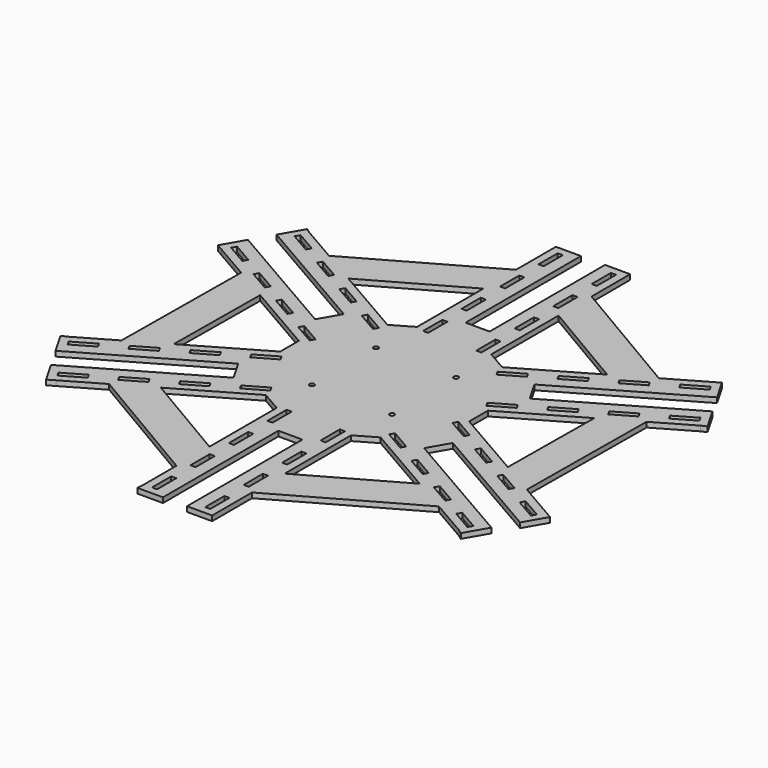
from build123d import *

# Parameters (mm, degrees)
F0_W     = 3.175
F0_H     = 15
F0_R     = 1.5
F1_DEPTH = 3.175
F2_W     = 15
F2_H     = 90
F3_DEPTH = 25


with BuildPart() as f1:
    # F0 (on Top) → F1 (new body)
    with BuildSketch(Plane.XY):
        Polygon((-23.175, 131.9121967456), (-103.4970442431, 86.514231331), (-81.2104844773, 73.6470800509), (-23.175, 106.4486968667), align=None)
        Polygon((-103.7747756863, 33.1542097007), (-125.8268134507, 45.8859596401), (-126.6720442431, -46.3739538656), (-104.3854844773, -33.5068025855), align=None)
        Polygon((-80.5997756863, -73.2944871661), (-102.6518134507, -86.0262371055), (-23.175, -132.8881851966), (-23.175, -107.1538826365), align=None)
        Polygon((23.175, -106.4486968667), (23.175, -131.9121967456), (103.4970442431, -86.514231331), (81.2104844773, -73.6470800509), align=None)
        Polygon((125.8268134507, -45.8859596401), (126.6720442431, 46.3739538656), (104.3854844773, 33.5068025855), (103.7747756863, -33.1542097007), align=None)
        Polygon((102.6518134507, 86.0262371055), (23.175, 132.8881851966), (23.175, 107.1538826365), (80.5997756863, 73.2944871661), align=None)
        Polygon((-103.4970442431, 86.514231331), (-126.509510468, 99.8004849007), (-129.388832816, 101.8705070473), (-152.7403481117, 61.4244961215), (-148.5971189432, 59.0324016457), (-125.8268134507, 45.8859596401), (-103.7747756863, 33.1542097007), (-58.9524324294, 7.2760177556), (-58.9524324294, -7.2760177556), (-104.3854844773, -33.5068025855), (-126.6720442431, -46.3739538656), (-149.684510468, -59.6602074353), (-152.9168634074, -61.118762661), (-129.5653481117, -101.5647735869), (-125.4221189432, -99.1726791111), (-102.6518134507, -86.0262371055), (-80.5997756863, -73.2944871661), (-35.7774324294, -47.416295221), (-23.175, -54.6923129765), (-23.175, -107.1538826365), (-23.175, -132.8881851966), (-23.175, -159.4606923359), (-23.5280305914, -162.9892697083), (23.175, -162.9892697083), (23.175, -158.2050807569), (23.175, -131.9121967456), (23.175, -106.4486968667), (23.175, -54.6923129765), (35.7774324294, -47.416295221), (81.2104844773, -73.6470800509), (103.4970442431, -86.514231331), (126.509510468, -99.8004849007), (129.388832816, -101.8705070473), (152.7403481117, -61.4244961215), (148.5971189432, -59.0324016457), (125.8268134507, -45.8859596401), (103.7747756863, -33.1542097007), (58.9524324294, -7.2760177556), (58.9524324294, 7.2760177556), (104.3854844773, 33.5068025855), (126.6720442431, 46.3739538656), (149.684510468, 59.6602074353), (152.9168634074, 61.118762661), (129.5653481117, 101.5647735869), (125.4221189432, 99.1726791111), (102.6518134507, 86.0262371055), (80.5997756863, 73.2944871661), (35.7774324294, 47.416295221), (23.175, 54.6923129765), (23.175, 107.1538826365), (23.175, 132.8881851966), (23.175, 159.4606923359), (23.175, 162.9892697083), (-23.175, 162.9892697083), (-23.175, 158.2050807569), (-23.175, 131.9121967456), (-23.175, 106.4486968667), (-23.175, 54.6923129765), (-35.7774324294, 47.416295221), (-81.2104844773, 73.6470800509), align=None)
        Polygon((-116.5192378865, -84.5929214352), (-114.9317378865, -87.3425520922), (-127.9221189432, -94.8425520922), (-129.5096189432, -92.0929214352), align=None, mode=Mode.SUBTRACT)
        with Locations((-16.5875, -150.7050807569)):
            Rectangle(F0_W, F0_H, mode=Mode.SUBTRACT)
        with Locations((-16.5875, -120.7050807569)):
            Rectangle(F0_W, F0_H, mode=Mode.SUBTRACT)
        with Locations((-16.5875, -90.7050807569)):
            Rectangle(F0_W, F0_H, mode=Mode.SUBTRACT)
        Polygon((-133.1067378865, -55.8625286647), (-131.5192378865, -58.6121593217), (-144.5096189432, -66.1121593217), (-146.0971189432, -63.3625286647), align=None, mode=Mode.SUBTRACT)
        Polygon((-120.1163568297, -48.3625286647), (-107.1259757729, -40.8625286647), (-105.5384757729, -43.6121593217), (-118.5288568297, -51.1121593217), align=None, mode=Mode.SUBTRACT)
        Polygon((-90.5384757729, -69.5929214352), (-88.9509757729, -72.3425520922), (-101.9413568297, -79.8425520922), (-103.5288568297, -77.0929214352), align=None, mode=Mode.SUBTRACT)
        Polygon((-77.5480947162, -62.0929214352), (-64.5577136594, -54.5929214352), (-62.9702136594, -57.3425520922), (-75.9605947162, -64.8425520922), align=None, mode=Mode.SUBTRACT)
        Polygon((-38.5769515459, -39.5929214352), (-36.9894515459, -42.3425520922), (-49.9798326026, -49.8425520922), (-51.5673326026, -47.0929214352), align=None, mode=Mode.SUBTRACT)
        with Locations((-16.5875, -60.7050807569)):
            Rectangle(F0_W, F0_H, mode=Mode.SUBTRACT)
        Polygon((-81.1452136594, -25.8625286647), (-79.5577136594, -28.6121593217), (-92.5480947162, -36.1121593217), (-94.1355947162, -33.3625286647), align=None, mode=Mode.SUBTRACT)
        Polygon((-68.1548326026, -18.3625286647), (-55.1644515459, -10.8625286647), (-53.5769515459, -13.6121593217), (-66.5673326026, -21.1121593217), align=None, mode=Mode.SUBTRACT)
        with Locations((-25, -25)):
            Circle(F0_R, mode=Mode.SUBTRACT)
        with Locations((16.5875, -150.7050807569)):
            Rectangle(F0_W, F0_H, mode=Mode.SUBTRACT)
        with Locations((16.5875, -120.7050807569)):
            Rectangle(F0_W, F0_H, mode=Mode.SUBTRACT)
        with Locations((16.5875, -90.7050807569)):
            Rectangle(F0_W, F0_H, mode=Mode.SUBTRACT)
        Polygon((114.9317378865, -87.3425520922), (116.5192378865, -84.5929214352), (129.5096189432, -92.0929214352), (127.9221189432, -94.8425520922), align=None, mode=Mode.SUBTRACT)
        with Locations((16.5875, -60.7050807569)):
            Rectangle(F0_W, F0_H, mode=Mode.SUBTRACT)
        Polygon((49.9798326026, -49.8425520922), (36.9894515459, -42.3425520922), (38.5769515459, -39.5929214352), (51.5673326026, -47.0929214352), align=None, mode=Mode.SUBTRACT)
        Polygon((101.9413568297, -79.8425520922), (88.9509757729, -72.3425520922), (90.5384757729, -69.5929214352), (103.5288568297, -77.0929214352), align=None, mode=Mode.SUBTRACT)
        Polygon((62.9702136594, -57.3425520922), (64.5577136594, -54.5929214352), (77.5480947162, -62.0929214352), (75.9605947162, -64.8425520922), align=None, mode=Mode.SUBTRACT)
        with Locations((25, -25)):
            Circle(F0_R, mode=Mode.SUBTRACT)
        Polygon((92.5480947162, -36.1121593217), (79.5577136594, -28.6121593217), (81.1452136594, -25.8625286647), (94.1355947162, -33.3625286647), align=None, mode=Mode.SUBTRACT)
        Polygon((53.5769515459, -13.6121593217), (55.1644515459, -10.8625286647), (68.1548326026, -18.3625286647), (66.5673326026, -21.1121593217), align=None, mode=Mode.SUBTRACT)
        Polygon((105.5384757729, -43.6121593217), (107.1259757729, -40.8625286647), (120.1163568297, -48.3625286647), (118.5288568297, -51.1121593217), align=None, mode=Mode.SUBTRACT)
        Polygon((131.5192378865, -58.6121593217), (133.1067378865, -55.8625286647), (146.0971189432, -63.3625286647), (144.5096189432, -66.1121593217), align=None, mode=Mode.SUBTRACT)
        Polygon((-131.5192378865, 58.6121593217), (-133.1067378865, 55.8625286647), (-146.0971189432, 63.3625286647), (-144.5096189432, 66.1121593217), align=None, mode=Mode.SUBTRACT)
        Polygon((-105.5384757729, 43.6121593217), (-107.1259757729, 40.8625286647), (-120.1163568297, 48.3625286647), (-118.5288568297, 51.1121593217), align=None, mode=Mode.SUBTRACT)
        Polygon((-53.5769515459, 13.6121593217), (-55.1644515459, 10.8625286647), (-68.1548326026, 18.3625286647), (-66.5673326026, 21.1121593217), align=None, mode=Mode.SUBTRACT)
        Polygon((-92.5480947162, 36.1121593217), (-79.5577136594, 28.6121593217), (-81.1452136594, 25.8625286647), (-94.1355947162, 33.3625286647), align=None, mode=Mode.SUBTRACT)
        with Locations((-25, 25)):
            Circle(F0_R, mode=Mode.SUBTRACT)
        Polygon((-62.9702136594, 57.3425520922), (-64.5577136594, 54.5929214352), (-77.5480947162, 62.0929214352), (-75.9605947162, 64.8425520922), align=None, mode=Mode.SUBTRACT)
        Polygon((-101.9413568297, 79.8425520922), (-88.9509757729, 72.3425520922), (-90.5384757729, 69.5929214352), (-103.5288568297, 77.0929214352), align=None, mode=Mode.SUBTRACT)
        Polygon((-49.9798326026, 49.8425520922), (-36.9894515459, 42.3425520922), (-38.5769515459, 39.5929214352), (-51.5673326026, 47.0929214352), align=None, mode=Mode.SUBTRACT)
        with Locations((-16.5875, 60.7050807569)):
            Rectangle(F0_W, F0_H, mode=Mode.SUBTRACT)
        Polygon((-114.9317378865, 87.3425520922), (-116.5192378865, 84.5929214352), (-129.5096189432, 92.0929214352), (-127.9221189432, 94.8425520922), align=None, mode=Mode.SUBTRACT)
        with Locations((-16.5875, 90.7050807569)):
            Rectangle(F0_W, F0_H, mode=Mode.SUBTRACT)
        with Locations((-16.5875, 120.7050807569)):
            Rectangle(F0_W, F0_H, mode=Mode.SUBTRACT)
        with Locations((-16.5875, 150.7050807569)):
            Rectangle(F0_W, F0_H, mode=Mode.SUBTRACT)
        with Locations((25, 25)):
            Circle(F0_R, mode=Mode.SUBTRACT)
        Polygon((68.1548326026, 18.3625286647), (55.1644515459, 10.8625286647), (53.5769515459, 13.6121593217), (66.5673326026, 21.1121593217), align=None, mode=Mode.SUBTRACT)
        Polygon((81.1452136594, 25.8625286647), (79.5577136594, 28.6121593217), (92.5480947162, 36.1121593217), (94.1355947162, 33.3625286647), align=None, mode=Mode.SUBTRACT)
        with Locations((16.5875, 60.7050807569)):
            Rectangle(F0_W, F0_H, mode=Mode.SUBTRACT)
        Polygon((38.5769515459, 39.5929214352), (36.9894515459, 42.3425520922), (49.9798326026, 49.8425520922), (51.5673326026, 47.0929214352), align=None, mode=Mode.SUBTRACT)
        Polygon((77.5480947162, 62.0929214352), (64.5577136594, 54.5929214352), (62.9702136594, 57.3425520922), (75.9605947162, 64.8425520922), align=None, mode=Mode.SUBTRACT)
        Polygon((90.5384757729, 69.5929214352), (88.9509757729, 72.3425520922), (101.9413568297, 79.8425520922), (103.5288568297, 77.0929214352), align=None, mode=Mode.SUBTRACT)
        Polygon((120.1163568297, 48.3625286647), (107.1259757729, 40.8625286647), (105.5384757729, 43.6121593217), (118.5288568297, 51.1121593217), align=None, mode=Mode.SUBTRACT)
        Polygon((133.1067378865, 55.8625286647), (131.5192378865, 58.6121593217), (144.5096189432, 66.1121593217), (146.0971189432, 63.3625286647), align=None, mode=Mode.SUBTRACT)
        with Locations((16.5875, 90.7050807569)):
            Rectangle(F0_W, F0_H, mode=Mode.SUBTRACT)
        with Locations((16.5875, 120.7050807569)):
            Rectangle(F0_W, F0_H, mode=Mode.SUBTRACT)
        with Locations((16.5875, 150.7050807569)):
            Rectangle(F0_W, F0_H, mode=Mode.SUBTRACT)
        Polygon((116.5192378865, 84.5929214352), (114.9317378865, 87.3425520922), (127.9221189432, 94.8425520922), (129.5096189432, 92.0929214352), align=None, mode=Mode.SUBTRACT)
    extrude(amount=F1_DEPTH)

    # F2 (on face) → F3 (cut)
    with BuildSketch(Plane.XY.offset(3.175)):
        Polygon((-59.4605617711, 42.9898253826), (-137.4028481117, 87.9898253826), (-144.9028481117, 74.9994443258), (-66.9605617711, 29.9994443258), align=None)
        with Locations((0, 117.9892697083)):
            Rectangle(F2_W, F2_H)
        Polygon((144.9028481117, 74.9994443258), (137.4028481117, 87.9898253826), (59.4605617711, 42.9898253826), (66.9605617711, 29.9994443258), align=None)
        Polygon((137.4028481117, -87.9898253826), (144.9028481117, -74.9994443258), (66.9605617711, -29.9994443258), (59.4605617711, -42.9898253826), align=None)
        with Locations((0, -117.9892697083)):
            Rectangle(F2_W, F2_H)
        Polygon((-66.9605617711, -29.9994443258), (-144.9028481117, -74.9994443258), (-137.4028481117, -87.9898253826), (-59.4605617711, -42.9898253826), align=None)
    extrude(amount=-F3_DEPTH, mode=Mode.SUBTRACT)


solid = f1.part
